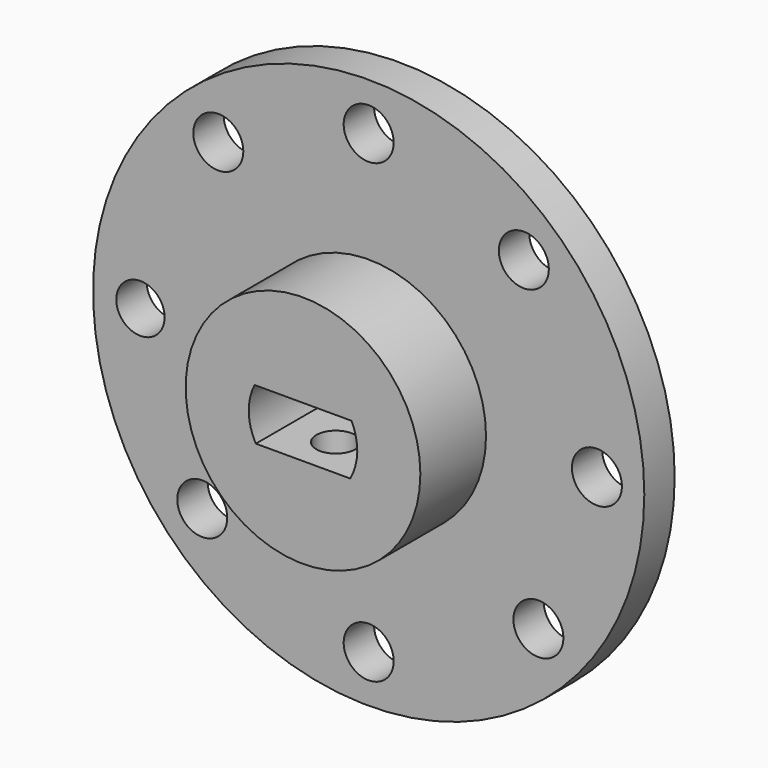
from build123d import *

# Parameters (mm, degrees)
F0_R     = 12.1666
F1_DEPTH = 12.446
F0_R_2   = 28.575
F0_R_3   = 2.5908
F0_R_4   = 2.506168
F2_DEPTH = 3.937
F3_R     = 2.0193
F4_DEPTH = 25.4


with BuildPart() as f1:
    # F0 (on Front) → F1 (new body)
    with BuildSketch(Plane.XZ):
        Circle(F0_R)
        with BuildLine():
            ThreePointArc((-4.892358, -2.778407), (-5.624556, -0.138136), (-5.02285, 2.534895))
            Line((-5.02285, 2.534895), (5.02285, 2.534895))
            ThreePointArc((5.02285, 2.534895), (5.624556, -0.138136), (4.892358, -2.778407))
            Line((4.892358, -2.778407), (-4.892358, -2.778407))
        make_face(mode=Mode.SUBTRACT)
    extrude(amount=F1_DEPTH)

    # F0 (on Front) → F2 (join)
    with BuildSketch(Plane.XZ):
        Circle(F0_R_2)
        with Locations((-17.251513, -16.192724)):
            Circle(F0_R_3, mode=Mode.SUBTRACT)
        with Locations((0, -23.660495)):
            Circle(F0_R_3, mode=Mode.SUBTRACT)
        with Locations((17.595791, -15.817938)):
            Circle(F0_R_3, mode=Mode.SUBTRACT)
        with Locations((-23.660495, 0)):
            Circle(F0_R_4, mode=Mode.SUBTRACT)
        with Locations((-15.588157, 17.799674)):
            Circle(F0_R_3, mode=Mode.SUBTRACT)
        Circle(F0_R, mode=Mode.SUBTRACT)
        with Locations((23.660495, 0)):
            Circle(F0_R_3, mode=Mode.SUBTRACT)
        with Locations((0, 23.660495)):
            Circle(F0_R_3, mode=Mode.SUBTRACT)
        with Locations((16.086078, 17.350997)):
            Circle(F0_R_3, mode=Mode.SUBTRACT)
    extrude(amount=F2_DEPTH)

    # F3 (on Top) → F4 (cut)
    with BuildSketch(Plane.XY):
        with Locations((0, -8.190851)):
            Circle(F3_R)
    extrude(amount=-F4_DEPTH, mode=Mode.SUBTRACT)


solid = f1.part
